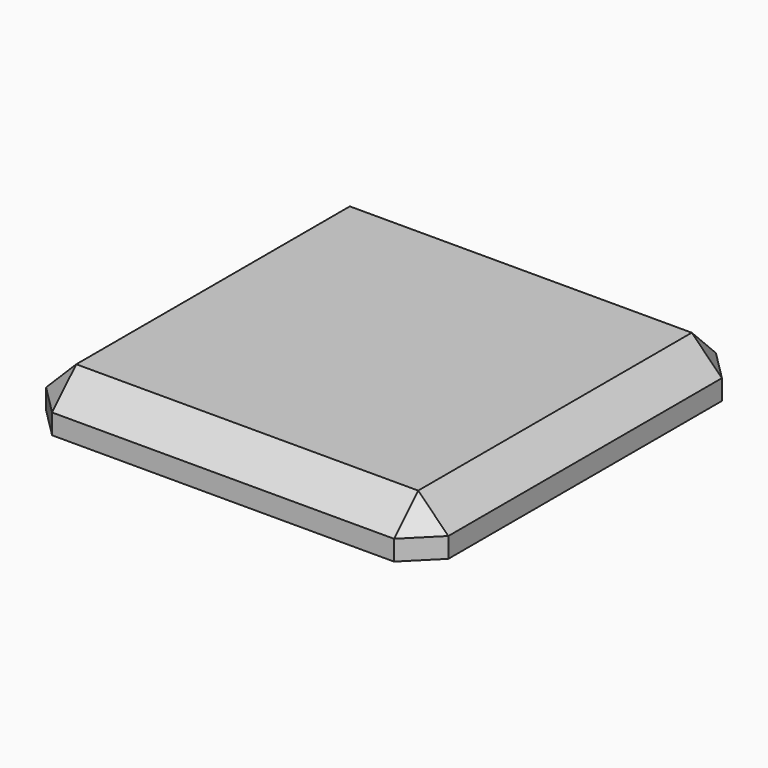
from build123d import *

# Parameters (mm, degrees)
BOX057_W                = 20
BOX057_H                = 20
BOX057_DEPTH            = 2.5
SKETCH047_R             = 2.4
PAD014_DEPTH            = 2
CHAMFER_SIZE            = 1.5
CHAMFER_PLACEMENT_ANGLE = 180


with BuildPart() as cubo043:
    # Box057 → Box057 (new body)
    with BuildSketch(Plane.XY):
        with Locations((10, 10)):
            Rectangle(BOX057_W, BOX057_H)
    extrude(amount=BOX057_DEPTH)


with BuildPart() as pad014:
    # Pad014 base: copy of Cubo043
    add(cubo043.part)

    # Sketch047 → Pad014 (new body)
    with BuildSketch(Plane.XY.offset(2.5)):
        with Locations((10, 10.425099)):
            Circle(SKETCH047_R)
    extrude(amount=PAD014_DEPTH)


with BuildPart() as chamfer_body:
    # Fusion032 base: copy of Cubo043
    add(cubo043.part)

    # Fusion032: union Pad014
    add(pad014.part)

    # Chamfer
    chamfer_edges = [chamfer_body.edges().sort_by_distance(p)[0] for p in [
        (0, 0, 1.25),
        (0, 10, 0),
        (0, 20, 1.25),
        (10, 0, 0),
        (20, 0, 1.25),
        (10, 20, 0),
        (20, 20, 1.25),
        (20, 10, 0),
    ]]
    chamfer(chamfer_edges, length=CHAMFER_SIZE)


with BuildPart() as chamfer_body_1:
    # Chamfer placement: moved
    add(chamfer_body.part.moved(Location((197, 144, -74.5))).rotate(Axis((197, 144, -74.5), (1, 0, 0)), CHAMFER_PLACEMENT_ANGLE))


solid = chamfer_body_1.part
